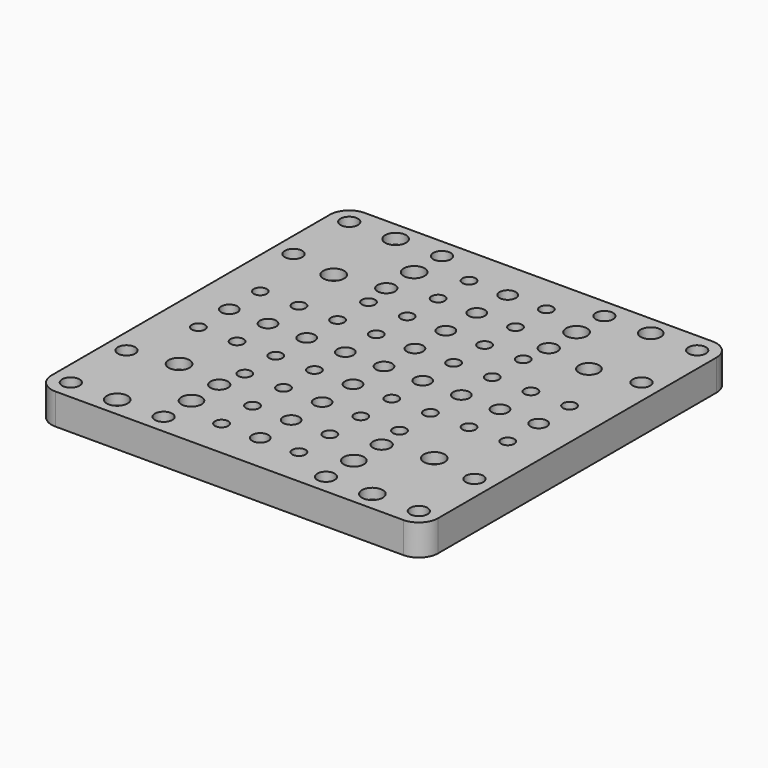
from build123d import *

# Parameters (mm, degrees)
SKETCH_W        = 100
SKETCH_H        = 100
PAD_DEPTH       = 8
SKETCH001_R     = 2.25
SKETCH001_R_2   = 2.7
SKETCH001_R_3   = 2.6
SKETCH001_R_4   = 2.1
POCKET_DEPTH    = 8.001
SKETCH002_R     = 1.7
POCKET001_DEPTH = 8.001
SKETCH003_R     = 4.6
POCKET002_DEPTH = 5.3
FILLET_R        = 5


with BuildPart() as part:
    # Sketch → Pad (new body)
    with BuildSketch(Plane.XY):
        Rectangle(SKETCH_W, SKETCH_H)
    extrude(amount=PAD_DEPTH)

    # Sketch001 → Pocket (cut, through all)
    with BuildSketch(Plane.XY.offset(8)):
        with Locations((-21, 45)):
            Circle(SKETCH001_R)
        with Locations((-45, 27)):
            Circle(SKETCH001_R)
        with Locations((-45, 45)):
            Circle(SKETCH001_R)
        with Locations((-21, 27)):
            Circle(SKETCH001_R)
        with Locations((21, 27)):
            Circle(SKETCH001_R)
        with Locations((21, 45)):
            Circle(SKETCH001_R)
        with Locations((45, 27)):
            Circle(SKETCH001_R)
        with Locations((45, 45)):
            Circle(SKETCH001_R)
        with Locations((21, -27)):
            Circle(SKETCH001_R)
        with Locations((45, -27)):
            Circle(SKETCH001_R)
        with Locations((45, -45)):
            Circle(SKETCH001_R)
        with Locations((21, -45)):
            Circle(SKETCH001_R)
        with Locations((-21, -27)):
            Circle(SKETCH001_R)
        with Locations((-45, -27)):
            Circle(SKETCH001_R)
        with Locations((-21, -45)):
            Circle(SKETCH001_R)
        with Locations((-45, -45)):
            Circle(SKETCH001_R)
        with Locations((-33, 45)):
            Circle(SKETCH001_R_2)
        with Locations((-33, 25)):
            Circle(SKETCH001_R_2)
        with Locations((33, 45)):
            Circle(SKETCH001_R_3)
        with Locations((33, 25)):
            Circle(SKETCH001_R_3)
        with Locations((-21, -36)):
            Circle(SKETCH001_R_3)
        with Locations((21, -36)):
            Circle(SKETCH001_R_3)
        with Locations((-21, 36)):
            Circle(SKETCH001_R_2)
        with Locations((21, 36)):
            Circle(SKETCH001_R_2)
        with Locations((33, -45)):
            Circle(SKETCH001_R_2)
        with Locations((33, -25)):
            Circle(SKETCH001_R_2)
        with Locations((-33, -25)):
            Circle(SKETCH001_R_2)
        with Locations((-33, -45)):
            Circle(SKETCH001_R_2)
        with Locations((0, 10)):
            Circle(SKETCH001_R_4)
        with Locations((0, 20)):
            Circle(SKETCH001_R_4)
        with Locations((0, 30)):
            Circle(SKETCH001_R_4)
        with Locations((0, 40)):
            Circle(SKETCH001_R_4)
        with Locations((10, 0)):
            Circle(SKETCH001_R_4)
        with Locations((20, 0)):
            Circle(SKETCH001_R_4)
        with Locations((30, 0)):
            Circle(SKETCH001_R_4)
        with Locations((40, 0)):
            Circle(SKETCH001_R_4)
        with Locations((-10, 0)):
            Circle(SKETCH001_R_4)
        with Locations((-20, 0)):
            Circle(SKETCH001_R_4)
        with Locations((-30, 0)):
            Circle(SKETCH001_R_4)
        with Locations((-40, 0)):
            Circle(SKETCH001_R_4)
        with Locations((0, -10)):
            Circle(SKETCH001_R_4)
        with Locations((0, -20)):
            Circle(SKETCH001_R_4)
        with Locations((0, -30)):
            Circle(SKETCH001_R_4)
        with Locations((0, -40)):
            Circle(SKETCH001_R_4)
        Circle(SKETCH001_R_4)
    extrude(amount=-POCKET_DEPTH, mode=Mode.SUBTRACT)

    # Sketch002 → Pocket001 (cut, through all)
    with BuildSketch(Plane.XY.offset(8)):
        with Locations((-10, 10)):
            Circle(SKETCH002_R)
        with Locations((-20, 10)):
            Circle(SKETCH002_R)
        with Locations((-30, 10)):
            Circle(SKETCH002_R)
        with Locations((-40, 10)):
            Circle(SKETCH002_R)
        with Locations((-10, -10)):
            Circle(SKETCH002_R)
        with Locations((-20, -10)):
            Circle(SKETCH002_R)
        with Locations((-30, -10)):
            Circle(SKETCH002_R)
        with Locations((-40, -10)):
            Circle(SKETCH002_R)
        with Locations((10, 10)):
            Circle(SKETCH002_R)
        with Locations((10, -10)):
            Circle(SKETCH002_R)
        with Locations((20, -10)):
            Circle(SKETCH002_R)
        with Locations((20, 10)):
            Circle(SKETCH002_R)
        with Locations((30, 10)):
            Circle(SKETCH002_R)
        with Locations((40, 10)):
            Circle(SKETCH002_R)
        with Locations((30, -10)):
            Circle(SKETCH002_R)
        with Locations((40, -10)):
            Circle(SKETCH002_R)
        with Locations((-10, 20)):
            Circle(SKETCH002_R)
        with Locations((-20, 20)):
            Circle(SKETCH002_R)
        with Locations((10, 20)):
            Circle(SKETCH002_R)
        with Locations((20, 20)):
            Circle(SKETCH002_R)
        with Locations((20, -20)):
            Circle(SKETCH002_R)
        with Locations((10, -20)):
            Circle(SKETCH002_R)
        with Locations((-10, -20)):
            Circle(SKETCH002_R)
        with Locations((-20, -20)):
            Circle(SKETCH002_R)
        with Locations((-10, 30)):
            Circle(SKETCH002_R)
        with Locations((-10, 40)):
            Circle(SKETCH002_R)
        with Locations((10, 40)):
            Circle(SKETCH002_R)
        with Locations((10, 30)):
            Circle(SKETCH002_R)
        with Locations((10, -30)):
            Circle(SKETCH002_R)
        with Locations((-10, -30)):
            Circle(SKETCH002_R)
        with Locations((-10, -40)):
            Circle(SKETCH002_R)
        with Locations((10, -40)):
            Circle(SKETCH002_R)
    extrude(amount=-POCKET001_DEPTH, mode=Mode.SUBTRACT)

    # Sketch003 → Pocket002 (cut)
    with BuildSketch(Plane(origin=(0, 0, 0), x_dir=(1, 0, 0), z_dir=(0, 0, -1))):
        with Locations((-33, 45)):
            Circle(SKETCH003_R)
        with Locations((33, -25)):
            Circle(SKETCH003_R)
        with Locations((33, 25)):
            Circle(SKETCH003_R)
        with Locations((33, 45)):
            Circle(SKETCH003_R)
        with Locations((-33, 25)):
            Circle(SKETCH003_R)
        with Locations((33.027935, -45.104759)):
            Circle(SKETCH003_R)
        with Locations((-32.9375, -44.962784)):
            Circle(SKETCH003_R)
        with Locations((-32.9375, -25.122341)):
            Circle(SKETCH003_R)
    extrude(amount=-POCKET002_DEPTH, mode=Mode.SUBTRACT)

    # Fillet
    fillet_edges = [part.edges().sort_by_distance(p)[0] for p in [
        (-50, -50, 4),
        (50, -50, 4),
        (-50, 50, 4),
        (50, 50, 4),
    ]]
    fillet(fillet_edges, radius=FILLET_R)


solid = part.part
